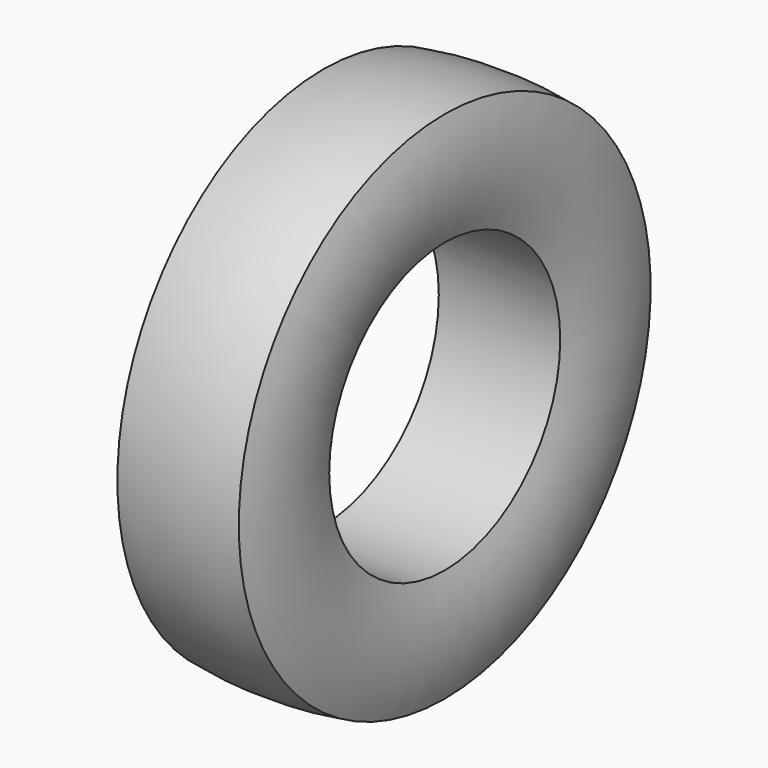
from build123d import *


with BuildPart() as f1:
    # F0 (on Front) → F1 (revolve)
    with BuildSketch(Plane.XZ):
        with BuildLine():
            ThreePointArc((997.5, 247.65), (1014.810936, 344.575), (997.5, 441.5))
            ThreePointArc((997.5, 441.5), (893.36, 449.5), (789.22, 441.5))
            ThreePointArc((789.22, 441.5), (771.909064, 344.575), (789.22, 247.65))
            Line((789.22, 247.65), (997.5, 247.65))
        make_face()
    revolve(axis=Axis((498.75, 0, 0), (1, 0, 0)))


solid = f1.part
